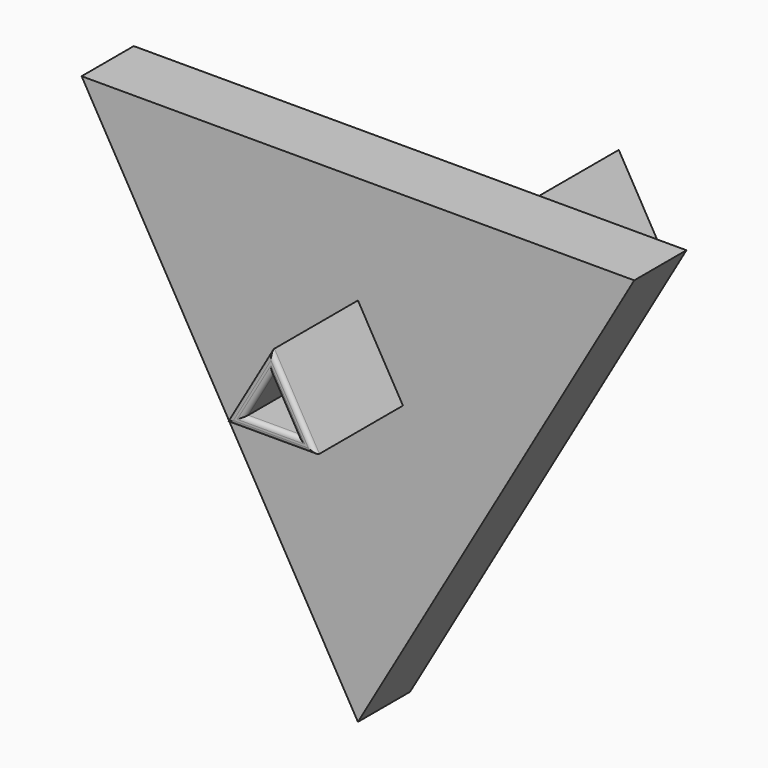
from build123d import *

# Parameters (mm, degrees)
F1_DEPTH = 25
F2_SIZE2 = 10
F2_SIZE  = 20
F4_DEPTH = 50
F5_T     = -2.5
F6_R     = 1


with BuildPart() as f1:
    # F0 (on Front) → F1 (new body)
    with BuildSketch(Plane.XZ):
        Polygon((63.5576491768, 36.6950258613), (-63.5576491768, 36.6950258613), (0, -73.3900517225), align=None)
    extrude(amount=-F1_DEPTH)

    # F2
    f2_edges = [f1.edges().sort_by_distance(p)[0] for p in [
        (-31.778825, 25, -18.347513),
        (0, 25, 36.695026),
        (31.778825, 25, -18.347513),
    ]]
    f2_side = f1.faces().sort_by_distance((0, 25, 0))[0]
    chamfer(f2_edges, length=F2_SIZE, length2=F2_SIZE2, reference=f2_side)

    # F3 (on face) → F4 (join, symmetric)
    with BuildSketch(Plane(origin=(0, 25, 0), x_dir=(-1, 0, 0), z_dir=(0, 1, 0))):
        Polygon((-10.3546479691, -5.9782587923), (10.3546479691, -5.9782587923), (0, 11.9565175846), align=None)
    extrude(amount=F4_DEPTH, both=True)

    # F5
    f5_openings = [f1.faces().sort_by_distance(p)[0] for p in [
        (0, -25, 0),
    ]]
    offset(amount=F5_T, openings=f5_openings, kind=Kind.INTERSECTION)

    # F6
    f6_edges = [f1.edges().sort_by_distance(p)[0] for p in [
        (0, -25, -5.978259),
        (0, -25, -3.478259),
        (3.01226, -25, 1.739129),
        (5.177324, -25, 2.989129),
        (-5.177324, -25, 2.989129),
        (-3.01226, -25, 1.739129),
    ]]
    fillet(f6_edges, radius=F6_R)


solid = f1.part
